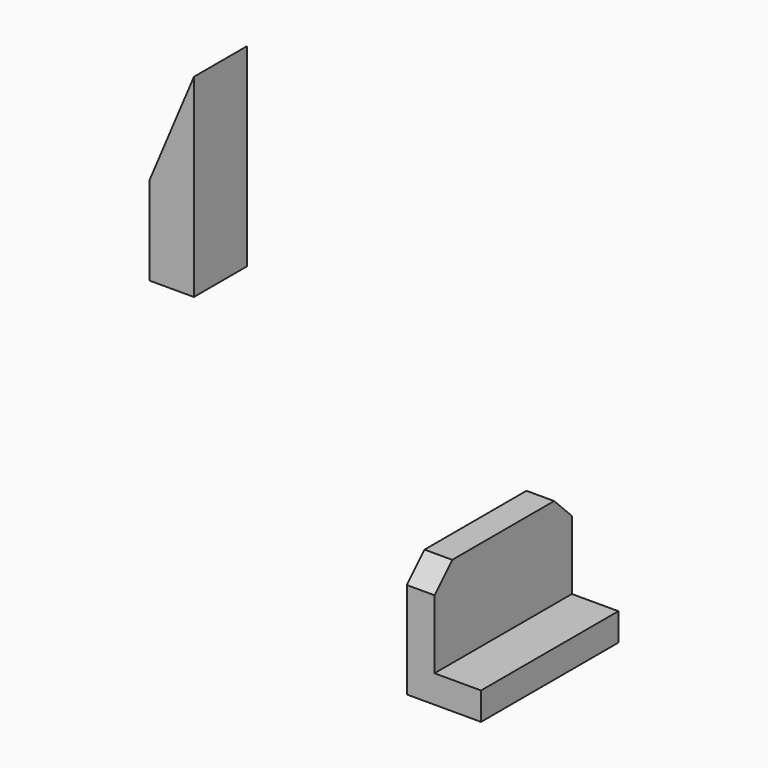
from build123d import *

# Parameters (mm, degrees)
F1_DEPTH = 15.5
F2_SIZE  = 2
F3_SIZE  = 2
F5_DEPTH = 6


with BuildPart() as f1:
    # F0 (on Front) → F1 (new body)
    with BuildSketch(Plane.XZ):
        Polygon((0, -8.302393), (-2.5, -8.302393), (-2.5, -19.002393), (4.2, -19.002393), (4.2, -16.502393), (0, -16.502393), align=None)
    extrude(amount=F1_DEPTH)

    # F2
    f2_edges = [f1.edges().sort_by_distance(p)[0] for p in [
        (-1.25, -15.5, -8.302393),
    ]]
    chamfer(f2_edges, length=F2_SIZE)

    # F3
    f3_edges = [f1.edges().sort_by_distance(p)[0] for p in [
        (-1.25, 0, -8.302393),
    ]]
    chamfer(f3_edges, length=F3_SIZE)


with BuildPart() as f5:
    # F4 (on Front) → F5 (new body)
    with BuildSketch(Plane.XZ):
        Polygon((-33.317309, 0), (-29.317309, 0), (-29.317309, 17.5), (-33.317309, 8), align=None)
    extrude(amount=F5_DEPTH)


solid = Compound([f1.part, f5.part])
